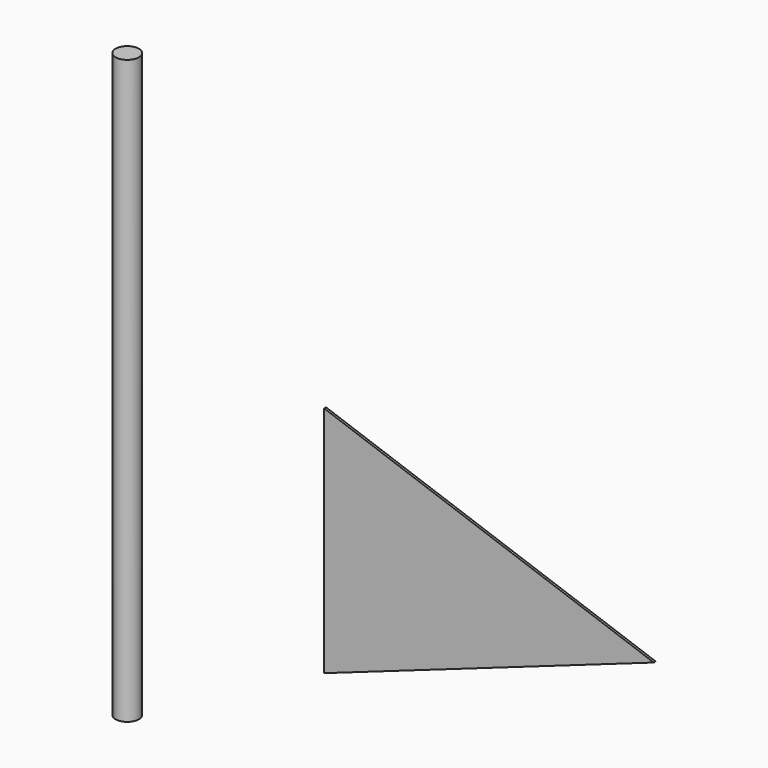
from build123d import *

# Parameters (mm, degrees)
F0_R     = 1.27
F1_DEPTH = 63.5
F3_DEPTH = 0.254


with BuildPart() as f1:
    # F0 (on Top) → F1 (new body)
    with BuildSketch(Plane.XY):
        with Locations((-35.461497, 34.353327)):
            Circle(F0_R)
    extrude(amount=F1_DEPTH)


with BuildPart() as f3:
    # F2 (on Front) → F3 (new body)
    with BuildSketch(Plane.XZ):
        Polygon((49.602548, 46.764849), (13.681523, 59.464849), (13.681523, 34.064849), align=None)
    extrude(amount=F3_DEPTH)


solid = Compound([f1.part, f3.part])
